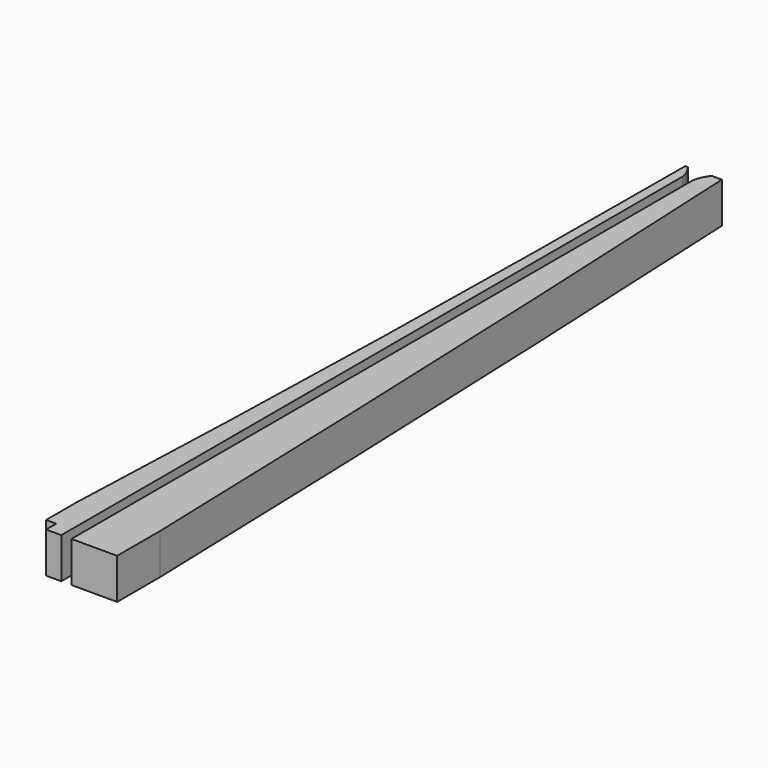
from build123d import *

# Parameters (mm, degrees)
PAD_DEPTH    = 8
SKETCH_W     = 4.72
SKETCH_H     = 153.5
PAD001_DEPTH = 5
PAD003_DEPTH = 8


with BuildPart() as part:
    # Sketch003 → Pad (new body)
    with BuildSketch(Plane.XY):
        with BuildLine():
            Line((-1, 0), (-1, 153))
            ThreePointArc((-1, 153), (-1.472972, 154.593853), (-2.36, 156))
            Line((-2.36, 156), (-2.86, 156))
            ThreePointArc((-6, 10), (-3.658792, 82.983414), (-2.86, 156))
            Line((-6, 10), (-6, 2.5))
            Line((-4, 2.5), (-6, 2.5))
            Line((-4, 0), (-4, 2.5))
            Line((-4, 0), (-1, 0))
        make_face()
    extrude(amount=PAD_DEPTH)

    # Sketch → Pad001 (join)
    with BuildSketch(Plane.XY):
        with Locations((0, 79.25)):
            Rectangle(SKETCH_W, SKETCH_H)
    extrude(amount=PAD001_DEPTH)

    # Sketch011 → Pad003 (join)
    with BuildSketch(Plane.XY):
        with BuildLine():
            Line((1, 0), (10, 0))
            Line((10, 0), (10, 10.5))
            ThreePointArc((10, 10.5), (7.593861, 83.266042), (4.36, 156))
            Line((4.36, 156), (2.36, 156))
            ThreePointArc((2.36, 156), (1.472972, 154.593853), (1, 153))
            Line((1, 153), (1, 0))
        make_face()
    extrude(amount=PAD003_DEPTH)


solid = part.part
